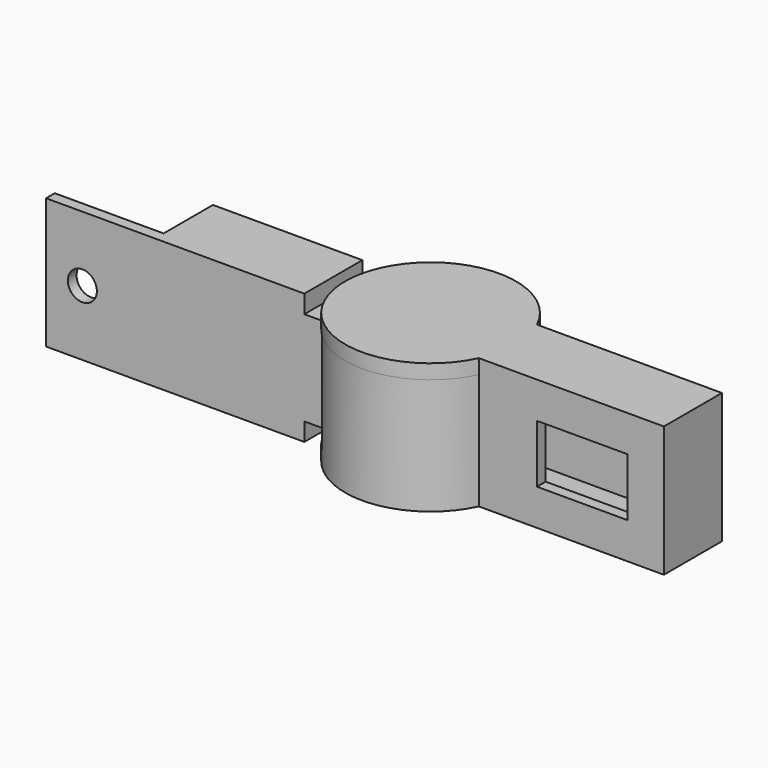
from build123d import *

# Parameters (mm, degrees)
F0_W      = 15
F0_H      = 1.5
F3_DEPTH  = 11.5
F0_W_2    = 19.098844244
F0_H_2    = 7
F0_W_3    = 5.901155756
F4_DEPTH  = 1.5
F7_DEPTH  = 1.5
F8_W      = 7
F8_H      = 10
F9_DEPTH  = 1.5
F10_DEPTH = 14
F11_DEPTH = 2
F14_DEPTH = 2
F15_R     = 2
F16_DEPTH = 1.5
F17_W     = 12.4997539157
F17_H     = 8
F18_DEPTH = 1.5
F19_DEPTH = 2.5
F6_W      = 15
F6_H      = 1.5
F20_DEPTH = 2.5


with BuildPart() as f3:
    # F0 (on Top) → F3 (new body)
    with BuildSketch(Plane.XY):
        Polygon((-25, -3.5), (-25, 3.5), (-5.901155756, 3.5), (-5.901155756, 5), (-26.5, 5), (-26.5, -3.5), (-26.5, -5), (-5.901155756, -5), (-5.901155756, -3.5), align=None)
        with BuildLine():
            Line((-5.901155756, 5), (-5.901155756, 3.5))
            Line((-5.901155756, 3.5), (0, 3.5))
            ThreePointArc((0, 3.5), (6.0640072265, 8.150946249), (13.3523499554, 5.8523499554))
            Line((13.3523499554, 5.8523499554), (14.4130101271, 6.9130101271))
            ThreePointArc((14.4130101271, 6.9130101271), (6.288164083, 9.7010758035), (-0.901155756, 5))
            Line((-0.901155756, 5), (-5.901155756, 5))
        make_face()
        with Locations((-34, -4.25)):
            Rectangle(F0_W, F0_H)
        Polygon((-25, -3.5), (-25, 3.5), (-5.901155756, 3.5), (-5.901155756, 5), (-26.5, 5), (-26.5, -3.5), (-26.5, -5), (-5.901155756, -5), (-5.901155756, -3.5), align=None)
        with BuildLine():
            Line((0, -3.5), (-5.901155756, -3.5))
            Line((-5.901155756, -3.5), (-5.901155756, -5))
            Line((-5.901155756, -5), (-0.901155756, -5))
            ThreePointArc((-0.901155756, -5), (6.2512782538, -9.6963968584), (14.3602281761, -6.9653921216))
            Line((14.3602281761, -6.9653921216), (13.3523499554, -5.8523499554))
            ThreePointArc((13.3523499554, -5.8523499554), (6.0640072265, -8.150946249), (0, -3.5))
        make_face()
        Polygon((-25, -3.5), (-25, 3.5), (-5.901155756, 3.5), (-5.901155756, 5), (-26.5, 5), (-26.5, -3.5), (-26.5, -5), (-5.901155756, -5), (-5.901155756, -3.5), align=None)
    extrude(amount=F3_DEPTH)

    # F3_face (on face) + F0 (on Top) → F4 (join)
    with BuildSketch(Plane(origin=(-10.9399146221, -0.5895055558, 11.5), x_dir=(1, 0, 0), z_dir=(0, 0, 1))):
        with BuildLine():
            Line((-15.5600853779, 5.5895055558), (-15.5600853779, -2.9104944442))
            Line((-15.5600853779, -2.9104944442), (-30.5600853779, -2.9104944442))
            Line((-30.5600853779, -2.9104944442), (-30.5600853779, -4.4104944442))
            Line((-30.5600853779, -4.4104944442), (10.0387588661, -4.4104944442))
            ThreePointArc((10.0387588661, -4.4104944442), (17.1911928759, -9.1068913026), (25.3001427982, -6.3758865658))
            Line((25.3001427982, -6.3758865658), (24.2922645775, -5.2628443995))
            ThreePointArc((24.2922645775, -5.2628443995), (17.0039218486, -7.5614406932), (10.9399146221, -2.9104944442))
            Line((10.9399146221, -2.9104944442), (-14.0600853779, -2.9104944442))
            Line((-14.0600853779, -2.9104944442), (-14.0600853779, 4.0895055558))
            Line((-14.0600853779, 4.0895055558), (10.9399146221, 4.0895055558))
            ThreePointArc((10.9399146221, 4.0895055558), (17.0039218486, 8.7404518048), (24.2922645775, 6.4418555112))
            Line((24.2922645775, 6.4418555112), (25.3529247492, 7.502515683))
            ThreePointArc((25.3529247492, 7.502515683), (17.2280787051, 10.2905813594), (10.0387588661, 5.5895055558))
            Line((10.0387588661, 5.5895055558), (-15.5600853779, 5.5895055558))
        make_face()
        with BuildLine():
            Line((-15.5600853779, 5.5895055558), (-15.5600853779, -2.9104944442))
            Line((-15.5600853779, -2.9104944442), (-30.5600853779, -2.9104944442))
            Line((-30.5600853779, -2.9104944442), (-30.5600853779, -4.4104944442))
            Line((-30.5600853779, -4.4104944442), (10.0387588661, -4.4104944442))
            ThreePointArc((10.0387588661, -4.4104944442), (17.1911928759, -9.1068913026), (25.3001427982, -6.3758865658))
            Line((25.3001427982, -6.3758865658), (24.2922645775, -5.2628443995))
            ThreePointArc((24.2922645775, -5.2628443995), (17.0039218486, -7.5614406932), (10.9399146221, -2.9104944442))
            Line((10.9399146221, -2.9104944442), (-14.0600853779, -2.9104944442))
            Line((-14.0600853779, -2.9104944442), (-14.0600853779, 4.0895055558))
            Line((-14.0600853779, 4.0895055558), (10.9399146221, 4.0895055558))
            ThreePointArc((10.9399146221, 4.0895055558), (17.0039218486, 8.7404518048), (24.2922645775, 6.4418555112))
            Line((24.2922645775, 6.4418555112), (25.3529247492, 7.502515683))
            ThreePointArc((25.3529247492, 7.502515683), (17.2280787051, 10.2905813594), (10.0387588661, 5.5895055558))
            Line((10.0387588661, 5.5895055558), (-15.5600853779, 5.5895055558))
        make_face()
    with BuildSketch(Plane.XY):
        Polygon((-25, -3.5), (-25, 3.5), (-5.901155756, 3.5), (-5.901155756, 5), (-26.5, 5), (-26.5, -3.5), (-26.5, -5), (-5.901155756, -5), (-5.901155756, -3.5), align=None)
        with BuildLine():
            Line((0, -3.5), (-5.901155756, -3.5))
            Line((-5.901155756, -3.5), (-5.901155756, -5))
            Line((-5.901155756, -5), (-0.901155756, -5))
            ThreePointArc((-0.901155756, -5), (6.2512782538, -9.6963968584), (14.3602281761, -6.9653921216))
            Line((14.3602281761, -6.9653921216), (13.3523499554, -5.8523499554))
            ThreePointArc((13.3523499554, -5.8523499554), (6.0640072265, -8.150946249), (0, -3.5))
        make_face()
        with BuildLine():
            ThreePointArc((13.3523499554, 5.8523499554), (6.0640072265, 8.150946249), (0, 3.5))
            Line((0, 3.5), (0, -3.5))
            ThreePointArc((0, -3.5), (6.0640072265, -8.150946249), (13.3523499554, -5.8523499554))
            Line((13.3523499554, -5.8523499554), (7.5, 0))
            Line((7.5, 0), (13.3523499554, 5.8523499554))
        make_face()
        with BuildLine():
            Line((14.4130101271, 6.9130101271), (13.3523499554, 5.8523499554))
            Line((13.3523499554, 5.8523499554), (7.5, 0))
            Line((7.5, 0), (13.3523499554, -5.8523499554))
            Line((13.3523499554, -5.8523499554), (14.3602281761, -6.9653921216))
            ThreePointArc((14.3602281761, -6.9653921216), (17.2764019754, -0.0371813384), (14.4130101271, 6.9130101271))
        make_face()
        with Locations((-15.450577878, 0)):
            Rectangle(F0_W_2, F0_H_2)
        with Locations((-2.950577878, 0)):
            Rectangle(F0_W_3, F0_H_2)
        with Locations((-15.450577878, 0)):
            Rectangle(F0_W_2, F0_H_2)
    extrude(amount=F4_DEPTH)

    # F6 (on offset) → F7 (join)
    with BuildSketch(Plane.XY.offset(13)):
        Polygon((-26.5, -3.5), (-26.5, -5), (-5.901155756, -5), (-5.901155756, 5), (-26.5, 5), align=None)
        with BuildLine():
            Line((-5.901155756, 5), (-5.901155756, -5))
            Line((-5.901155756, -5), (-0.901155756, -5))
            ThreePointArc((-0.901155756, -5), (6.2512782538, -9.6963968584), (14.3602281761, -6.9653921216))
            ThreePointArc((14.3602281761, -6.9653921216), (17.2764019754, -0.0371813384), (14.4130101271, 6.9130101271))
            ThreePointArc((14.4130101271, 6.9130101271), (6.288164083, 9.7010758035), (-0.901155756, 5))
            Line((-0.901155756, 5), (-5.901155756, 5))
        make_face()
        with BuildLine():
            Line((-5.901155756, 5), (-5.901155756, -5))
            Line((-5.901155756, -5), (-0.901155756, -5))
            ThreePointArc((-0.901155756, -5), (6.2512782538, -9.6963968584), (14.3602281761, -6.9653921216))
            ThreePointArc((14.3602281761, -6.9653921216), (17.2764019754, -0.0371813384), (14.4130101271, 6.9130101271))
            ThreePointArc((14.4130101271, 6.9130101271), (6.288164083, 9.7010758035), (-0.901155756, 5))
            Line((-0.901155756, 5), (-5.901155756, 5))
        make_face()
    extrude(amount=-F7_DEPTH)

    # F8 (on face) → F9 (cut, through all)
    with BuildSketch(Plane(origin=(-26.5, 0, 0), x_dir=(0, -1, 0), z_dir=(-1, 0, 0))):
        with Locations((0, 6.5)):
            Rectangle(F8_W, F8_H)
    extrude(amount=-F9_DEPTH, mode=Mode.SUBTRACT)

    # F15 (on face) → F16 (cut, through all)
    with BuildSketch(Plane.XZ.offset(5)):
        with Locations((-36.5, 6.5)):
            Circle(F15_R)
    extrude(amount=-F16_DEPTH, mode=Mode.SUBTRACT)

    # F0 (on Top) → F19 (join)
    with BuildSketch(Plane.XY):
        Polygon((-25, -3.5), (-25, 3.5), (-5.901155756, 3.5), (-5.901155756, 5), (-26.5, 5), (-26.5, -3.5), (-26.5, -5), (-5.901155756, -5), (-5.901155756, -3.5), align=None)
        with Locations((-15.450577878, 0)):
            Rectangle(F0_W_2, F0_H_2)
        with Locations((-34, -4.25)):
            Rectangle(F0_W, F0_H)
        Polygon((-25, -3.5), (-25, 3.5), (-5.901155756, 3.5), (-5.901155756, 5), (-26.5, 5), (-26.5, -3.5), (-26.5, -5), (-5.901155756, -5), (-5.901155756, -3.5), align=None)
        with Locations((-15.450577878, 0)):
            Rectangle(F0_W_2, F0_H_2)
    extrude(amount=-F19_DEPTH)

    # F6 (on offset) → F20 (join)
    with BuildSketch(Plane.XY.offset(13)):
        Polygon((-26.5, -3.5), (-26.5, -5), (-5.901155756, -5), (-5.901155756, 5), (-26.5, 5), align=None)
        with Locations((-34, -4.25)):
            Rectangle(F6_W, F6_H)
    extrude(amount=F20_DEPTH)


with BuildPart() as f10:
    # F2 (on offset) → F10 (new body)
    with BuildSketch(Plane.XY.offset(-0.5)):
        with BuildLine():
            ThreePointArc((0.2334364823, 7.2665635177), (9.731900812, 10.0311768741), (17.1620852157, 3.5))
            Line((17.1620852157, 3.5), (42.1620852157, 3.5))
            Line((42.1620852157, 3.5), (42.1620852157, -3.5))
            Line((42.1620852157, -3.5), (17.1620852157, -3.5))
            ThreePointArc((17.1620852157, -3.5), (9.731900812, -10.0311768741), (0.2334364823, -7.2665635177))
            Line((0.2334364823, -7.2665635177), (-0.8272236895, -8.3272236895))
            ThreePointArc((-0.8272236895, -8.3272236895), (9.5324335802, -11.5997638981), (18.1623313, -5))
            Line((18.1623313, -5), (43.6620852157, -5))
            Line((43.6620852157, -5), (43.6620852157, 5))
            Line((43.6620852157, 5), (18.1623313, 5))
            ThreePointArc((18.1623313, 5), (9.5324335802, 11.5997638981), (-0.8272236895, 8.3272236895))
            Line((-0.8272236895, 8.3272236895), (0.2334364823, 7.2665635177))
        make_face()
    extrude(amount=F10_DEPTH)

    # F2 (on offset) → F11 (join)
    with BuildSketch(Plane.XY.offset(-0.5)):
        with BuildLine():
            ThreePointArc((0.2334364823, 7.2665635177), (9.731900812, 10.0311768741), (17.1620852157, 3.5))
            Line((17.1620852157, 3.5), (42.1620852157, 3.5))
            Line((42.1620852157, 3.5), (42.1620852157, -3.5))
            Line((42.1620852157, -3.5), (17.1620852157, -3.5))
            ThreePointArc((17.1620852157, -3.5), (9.731900812, -10.0311768741), (0.2334364823, -7.2665635177))
            Line((0.2334364823, -7.2665635177), (-0.8272236895, -8.3272236895))
            ThreePointArc((-0.8272236895, -8.3272236895), (9.5324335802, -11.5997638981), (18.1623313, -5))
            Line((18.1623313, -5), (43.6620852157, -5))
            Line((43.6620852157, -5), (43.6620852157, 5))
            Line((43.6620852157, 5), (18.1623313, 5))
            ThreePointArc((18.1623313, 5), (9.5324335802, 11.5997638981), (-0.8272236895, 8.3272236895))
            Line((-0.8272236895, 8.3272236895), (0.2334364823, 7.2665635177))
        make_face()
        with BuildLine():
            Line((42.1620852157, 3.5), (17.1620852157, 3.5))
            ThreePointArc((17.1620852157, 3.5), (9.731900812, 10.0311768741), (0.2334364823, 7.2665635177))
            Line((0.2334364823, 7.2665635177), (0.5869898729, 6.9130101271))
            Line((0.5869898729, 6.9130101271), (7.5, 0))
            Line((7.5, 0), (0.2334364823, -7.2665635177))
            ThreePointArc((0.2334364823, -7.2665635177), (9.731900812, -10.0311768741), (17.1620852157, -3.5))
            Line((17.1620852157, -3.5), (42.1620852157, -3.5))
            Line((42.1620852157, -3.5), (42.1620852157, 3.5))
        make_face()
        with BuildLine():
            Line((0.5869898729, 6.9130101271), (0.2334364823, 7.2665635177))
            Line((0.2334364823, 7.2665635177), (-0.8272236895, 8.3272236895))
            ThreePointArc((-0.8272236895, 8.3272236895), (-4.2764726786, 0), (-0.8272236895, -8.3272236895))
            Line((-0.8272236895, -8.3272236895), (0.2334364823, -7.2665635177))
            Line((0.2334364823, -7.2665635177), (7.5, 0))
            Line((7.5, 0), (0.5869898729, 6.9130101271))
        make_face()
    extrude(amount=-F11_DEPTH)

    # F13 (on offset) → F14 (join)
    with BuildSketch(Plane.XY.offset(13.5)):
        with BuildLine():
            Line((43.6620852157, -5), (43.6620852157, 5))
            Line((43.6620852157, 5), (18.1623313, 5))
            ThreePointArc((18.1623313, 5), (9.5324335802, 11.5997638981), (-0.8272236895, 8.3272236895))
            ThreePointArc((-0.8272236895, 8.3272236895), (-4.2764726786, 0), (-0.8272236895, -8.3272236895))
            ThreePointArc((-0.8272236895, -8.3272236895), (9.5324335802, -11.5997638981), (18.1623313, -5))
            Line((18.1623313, -5), (43.6620852157, -5))
        make_face()
    extrude(amount=F14_DEPTH)

    # F17 (on face) → F18 (cut, through all)
    with BuildSketch(Plane.XZ.offset(5)):
        with Locations((32.4122082578, 6.5)):
            Rectangle(F17_W, F17_H)
    extrude(amount=-F18_DEPTH, mode=Mode.SUBTRACT)


solid = Compound([f3.part, f10.part])
